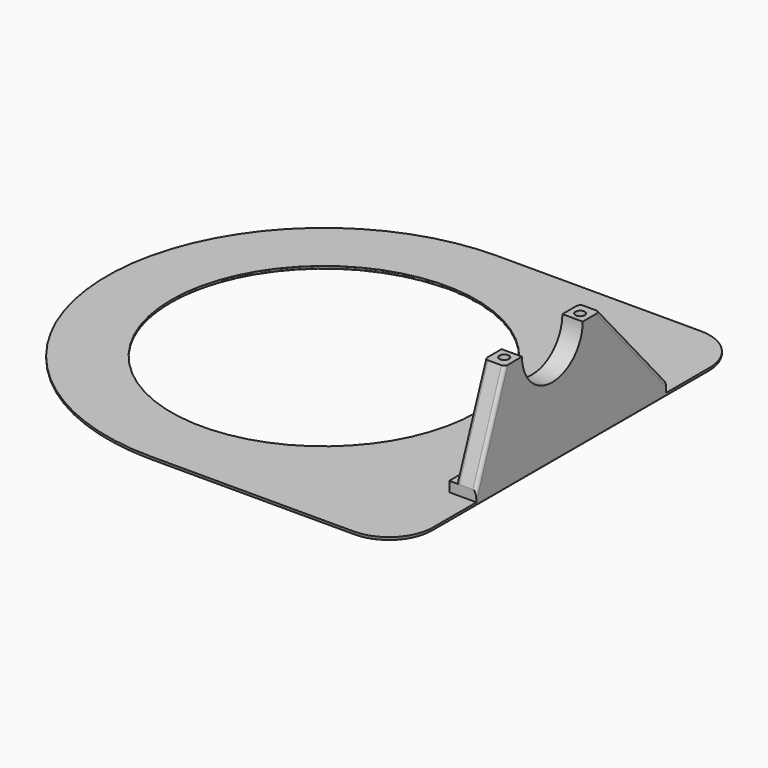
from build123d import *

# Parameters (mm, degrees)
SKETCH001_R     = 45
PAD_DEPTH       = 1
SKETCH_W        = 8
SKETCH_H        = 70
PAD003_DEPTH    = 3
FILLET_R        = 0.6
PAD006_DEPTH    = 6
SKETCH015_R     = 1.4
POCKET008_DEPTH = 15
FILLET008_R     = 1


with BuildPart() as part:
    # Sketch001 → Pad (new body)
    with BuildSketch(Plane.XY):
        with BuildLine():
            Line((60, 64), (0, 64))
            ThreePointArc((0, 64), (-63.999918, 0), (0, -64))
            Line((60, -64), (0, -64))
            ThreePointArc((60, -64), (69.192388, -60.192388), (73, -51))
            Line((73, 51), (73, -51))
            ThreePointArc((73, 51), (69.192388, 60.192388), (60, 64))
        make_face()
        Circle(SKETCH001_R, mode=Mode.SUBTRACT)
    extrude(amount=-PAD_DEPTH)

    # Sketch → Pad003 (new body)
    with BuildSketch(Plane.XY):
        with Locations((69, 0)):
            Rectangle(SKETCH_W, SKETCH_H)
    extrude(amount=PAD003_DEPTH)

    # Fillet
    fillet_edges = [part.edges().sort_by_distance(p)[0] for p in [
        (69.192388, 60.192388, -1),
        (30, 64, -1),
        (-63.999918, 0, -1),
        (30, -64, -1),
        (69.192388, -60.192388, -1),
        (73, 0, -1),
        (-45, 0, -1),
    ]]
    fillet(fillet_edges, radius=FILLET_R)

    # Sketch014 → Pad006 (new body)
    with BuildSketch(Plane.YZ.offset(73)):
        with BuildLine():
            Line((-35, 3), (-24.5, 31))
            Line((-24.5, 31), (-18.2, 31))
            ThreePointArc((-18.2, 31), (-7, 19.8), (4.2, 31))
            Line((4.2, 31), (10.5, 31))
            Line((10.5, 31), (35, 3))
            Line((35, 3), (-35, 3))
        make_face()
    extrude(amount=-PAD006_DEPTH)

    # Sketch015 → Pocket008 (cut)
    with BuildSketch(Plane.XY.offset(31)):
        with Locations((70, 7)):
            Circle(SKETCH015_R)
        with Locations((70, -21)):
            Circle(SKETCH015_R)
    extrude(amount=-POCKET008_DEPTH, mode=Mode.SUBTRACT)

    # Fillet008
    fillet008_edges = [part.edges().sort_by_distance(p)[0] for p in [
        (73, 22.75, 17),
        (67, 22.75, 17),
        (67, -29.75, 17),
        (73, -29.75, 17),
    ]]
    fillet(fillet008_edges, radius=FILLET008_R)


solid = part.part
